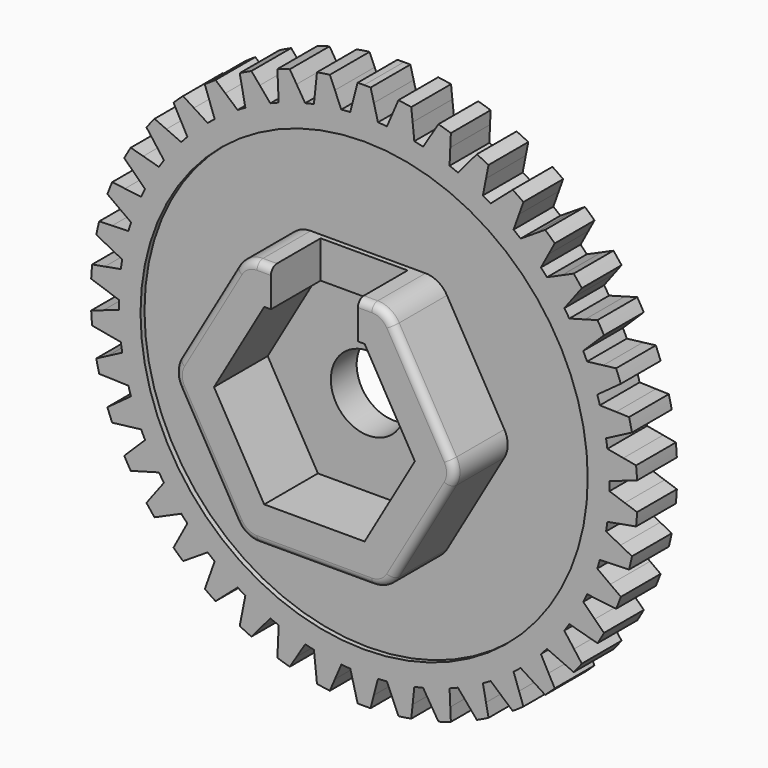
from build123d import *

# Parameters (mm, degrees)
F0_R      = 9.875
F1_DEPTH  = 2
F3_DEPTH  = 2
F4_R      = 9
F5_DEPTH  = 0.2
F6_R      = 9
F7_DEPTH  = 0.5
F9_DEPTH  = 2.7
F10_W     = 3.5
F10_H     = 1.5
F11_DEPTH = 2.5
F12_R     = 1.5
F13_DEPTH = 25
F14_R     = 1
F15_R     = 0.3


with BuildPart() as f1:
    # F0 (on Front) → F1 (new body)
    with BuildSketch(Plane.XZ):
        Circle(F0_R)
    extrude(amount=F1_DEPTH)

    # F2 (on Front) → F3 (join)
    with BuildSketch(Plane.XZ):
        with BuildLine():
            Line((10.4339782039, 1.1756269991), (9.7900083646, 1.2928113632))
            ThreePointArc((9.7900083646, 1.2928113632), (9.8473874972, 0.7379596742), (9.8733455952, 0.1807533041))
            Line((9.8733455952, 0.1807533041), (10.4926574003, 0.3926075399))
            Line((10.4926574003, 0.3926075399), (10.9856720066, 0.561258019))
            ThreePointArc((10.9856720066, 0.561258019), (10.969241769, 0.8220310295), (10.946622294, 1.0823402207))
            Line((10.946622294, 1.0823402207), (10.4339782039, 1.1756269991))
        make_face()
        with BuildLine():
            Line((10.142221176, 2.7175999736), (9.4879785246, 2.737496761))
            ThreePointArc((9.4879785246, 2.737496761), (9.6274131328, 2.1973942228), (9.7361286005, 1.6502802413))
            Line((9.7361286005, 1.6502802413), (10.3169479689, 1.9520718752))
            Line((10.3169479689, 1.9520718752), (10.7793199598, 2.192318682))
            ThreePointArc((10.7793199598, 2.192318682), (10.724207034, 2.4477302735), (10.6630431281, 2.7017607683))
            Line((10.6630431281, 2.7017607683), (10.142221176, 2.7175999736))
        make_face()
        with BuildLine():
            Line((9.6239036866, 4.1988662554), (8.9740029228, 4.1210310047))
            ThreePointArc((8.9740029228, 4.1210310047), (9.1923782679, 3.6077426156), (9.3814225813, 3.0829426449))
            Line((9.3814225813, 3.0829426449), (9.9107749682, 3.4679301505))
            Line((9.9107749682, 3.4679301505), (10.3321757175, 3.7744065683))
            ThreePointArc((10.3321757175, 3.7744065683), (10.2396112351, 4.018751268), (10.1412691988, 4.2608284449))
            Line((10.1412691988, 4.2608284449), (9.6239036866, 4.1988662554))
        make_face()
        with BuildLine():
            Line((8.8906040919, 5.5863368034), (8.2595629248, 5.4125082255))
            ThreePointArc((8.2595629248, 5.4125082255), (8.5520008624, 4.9375), (8.8171510839, 4.4467372042))
            Line((8.8171510839, 4.4467372042), (9.2832116318, 4.9063205969))
            Line((9.2832116318, 4.9063205969), (9.654227743, 5.2721804489))
            ThreePointArc((9.654227743, 5.2721804489), (9.5262794416, 5.5), (9.3929560736, 5.7247162549))
            Line((9.3929560736, 5.7247162549), (8.8906040919, 5.5863368034))
        make_face()
        with BuildLine():
            Line((7.958703093, 6.8490178184), (7.3606179395, 6.5830789565))
            ThreePointArc((7.3606179395, 6.5830789565), (7.7205858894, 6.1569617934), (8.0559190012, 5.7111990024))
            Line((8.0559190012, 5.7111990024), (8.4482766876, 6.2351119485))
            Line((8.4482766876, 6.2351119485), (8.7606202739, 6.6521825303))
            ThreePointArc((8.7606202739, 6.6521825303), (8.6001463071, 6.8583878204), (8.4348198311, 7.0607233635))
            Line((8.4348198311, 7.0607233635), (7.958703093, 6.8490178184))
        make_face()
        with BuildLine():
            Line((6.8490178184, 7.958703093), (6.2972489126, 7.6065945819))
            ThreePointArc((6.2972489126, 7.6065945819), (6.7167057855, 7.2388872343), (7.114731, 6.8480820524))
            Line((7.114731, 6.8480820524), (7.4246212025, 7.4246212025))
            Line((7.4246212025, 7.4246212025), (7.6713150243, 7.8835858464))
            ThreePointArc((7.6713150243, 7.8835858464), (7.4819001155, 8.0635705901), (7.2882636517, 8.2390055797))
            Line((7.2882636517, 8.2390055797), (6.8490178184, 7.958703093))
        make_face()
        with BuildLine():
            Line((5.5863368034, 8.8906040919), (5.0932097508, 8.4601914538))
            ThreePointArc((5.0932097508, 8.4601914538), (5.5627855734, 8.1591078964), (6.0146116651, 7.8319902654))
            Line((6.0146116651, 7.8319902654), (6.2351119485, 8.4482766876))
            Line((6.2351119485, 8.4482766876), (6.4106452736, 8.9388828819))
            ThreePointArc((6.4106452736, 8.9388828819), (6.1965206387, 9.0886265175), (5.9788997058, 9.2332420258))
            Line((5.9788997058, 9.2332420258), (5.5863368034, 8.8906040919))
        make_face()
        with BuildLine():
            Line((4.1988662554, 9.6239036866), (3.7753966995, 9.1248016286))
            ThreePointArc((3.7753966995, 9.1248016286), (4.2846019238, 8.8970675705), (4.7801358444, 8.6409447579))
            Line((4.7801358444, 8.6409447579), (4.9063205969, 9.2832116318))
            Line((4.9063205969, 9.2832116318), (5.0067723007, 9.7945000449))
            ThreePointArc((5.0067723007, 9.7945000449), (4.7727211303, 9.9106575469), (4.5359770204, 10.0212231025))
            Line((4.5359770204, 10.0212231025), (4.1988662554, 9.6239036866))
        make_face()
        with BuildLine():
            Line((2.7175999736, 10.142221176), (2.3732475245, 9.5855788134))
            ThreePointArc((2.3732475245, 9.5855788134), (2.9107073473, 9.4362814571), (3.4388796879, 9.2568748232))
            Line((3.4388796879, 9.2568748232), (3.4679301505, 9.9107749682))
            Line((3.4679301505, 9.9107749682), (3.4910563081, 10.4313242617))
            ThreePointArc((3.4910563081, 10.4313242617), (3.2423069185, 10.5113008636), (2.9917281037, 10.5853466147))
            Line((2.9917281037, 10.5853466147), (2.7175999736, 10.142221176))
        make_face()
        with BuildLine():
            Line((1.1756269991, 10.4339782039), (0.9180839216, 9.8322300071))
            ThreePointArc((0.9180839216, 9.8322300071), (1.4717923785, 9.764704409), (2.0208046417, 9.6660216015))
            Line((2.0208046417, 9.6660216015), (1.9520718752, 10.3169479689))
            Line((1.9520718752, 10.3169479689), (1.8973558864, 10.8351299319))
            ThreePointArc((1.8973558864, 10.8351299319), (1.6394649279, 10.8771390885), (1.3806489249, 10.9130109753))
            Line((1.3806489249, 10.9130109753), (1.1756269991, 10.4339782039))
        make_face()
        with BuildLine():
            ThreePointArc((-2.0208046417, 9.6660216015), (-1.4717923785, 9.764704409), (-0.9180839216, 9.8322300071))
            Line((-0.9180839216, 9.8322300071), (-1.1756269991, 10.4339782039))
            Line((-1.1756269991, 10.4339782039), (-1.3806489249, 10.9130109753))
            ThreePointArc((-1.3806489249, 10.9130109753), (-1.6394649279, 10.8771390885), (-1.8973558864, 10.8351299319))
            Line((-1.8973558864, 10.8351299319), (-1.9520718752, 10.3169479689))
            Line((-1.9520718752, 10.3169479689), (-2.0208046417, 9.6660216015))
        make_face()
        with BuildLine():
            ThreePointArc((-3.4388796879, 9.2568748232), (-2.9107073473, 9.4362814571), (-2.3732475245, 9.5855788134))
            Line((-2.3732475245, 9.5855788134), (-2.7175999736, 10.142221176))
            Line((-2.7175999736, 10.142221176), (-2.9917281037, 10.5853466147))
            ThreePointArc((-2.9917281037, 10.5853466147), (-3.2423069185, 10.5113008636), (-3.4910563081, 10.4313242617))
            Line((-3.4910563081, 10.4313242617), (-3.4679301505, 9.9107749682))
            Line((-3.4679301505, 9.9107749682), (-3.4388796879, 9.2568748232))
        make_face()
        with BuildLine():
            ThreePointArc((-4.7801358444, 8.6409447579), (-4.2846019238, 8.8970675705), (-3.7753966995, 9.1248016286))
            Line((-3.7753966995, 9.1248016286), (-4.1988662554, 9.6239036866))
            Line((-4.1988662554, 9.6239036866), (-4.5359770204, 10.0212231025))
            ThreePointArc((-4.5359770204, 10.0212231025), (-4.7727211303, 9.9106575469), (-5.0067723007, 9.7945000449))
            Line((-5.0067723007, 9.7945000449), (-4.9063205969, 9.2832116318))
            Line((-4.9063205969, 9.2832116318), (-4.7801358444, 8.6409447579))
        make_face()
        with BuildLine():
            ThreePointArc((-6.0146116651, 7.8319902654), (-5.5627855734, 8.1591078964), (-5.0932097508, 8.4601914538))
            Line((-5.0932097508, 8.4601914538), (-5.5863368034, 8.8906040919))
            Line((-5.5863368034, 8.8906040919), (-5.9788997058, 9.2332420258))
            ThreePointArc((-5.9788997058, 9.2332420258), (-6.1965206387, 9.0886265175), (-6.4106452736, 8.9388828819))
            Line((-6.4106452736, 8.9388828819), (-6.2351119485, 8.4482766876))
            Line((-6.2351119485, 8.4482766876), (-6.0146116651, 7.8319902654))
        make_face()
        with BuildLine():
            ThreePointArc((-7.114731, 6.8480820524), (-6.7167057855, 7.2388872343), (-6.2972489126, 7.6065945819))
            Line((-6.2972489126, 7.6065945819), (-6.8490178184, 7.958703093))
            Line((-6.8490178184, 7.958703093), (-7.2882636517, 8.2390055797))
            ThreePointArc((-7.2882636517, 8.2390055797), (-7.4819001155, 8.0635705901), (-7.6713150243, 7.8835858464))
            Line((-7.6713150243, 7.8835858464), (-7.4246212025, 7.4246212025))
            Line((-7.4246212025, 7.4246212025), (-7.114731, 6.8480820524))
        make_face()
        with BuildLine():
            ThreePointArc((-8.0559190012, 5.7111990024), (-7.7205858894, 6.1569617934), (-7.3606179395, 6.5830789565))
            Line((-7.3606179395, 6.5830789565), (-7.958703093, 6.8490178184))
            Line((-7.958703093, 6.8490178184), (-8.4348198311, 7.0607233635))
            ThreePointArc((-8.4348198311, 7.0607233635), (-8.6001463071, 6.8583878204), (-8.7606202739, 6.6521825303))
            Line((-8.7606202739, 6.6521825303), (-8.4482766876, 6.2351119485))
            Line((-8.4482766876, 6.2351119485), (-8.0559190012, 5.7111990024))
        make_face()
        with BuildLine():
            ThreePointArc((-8.8171510839, 4.4467372042), (-8.5520008624, 4.9375), (-8.2595629248, 5.4125082255))
            Line((-8.2595629248, 5.4125082255), (-8.8906040919, 5.5863368034))
            Line((-8.8906040919, 5.5863368034), (-9.3929560736, 5.7247162549))
            ThreePointArc((-9.3929560736, 5.7247162549), (-9.5262794416, 5.5), (-9.654227743, 5.2721804489))
            Line((-9.654227743, 5.2721804489), (-9.2832116318, 4.9063205969))
            Line((-9.2832116318, 4.9063205969), (-8.8171510839, 4.4467372042))
        make_face()
        with BuildLine():
            ThreePointArc((-9.3814225813, 3.0829426449), (-9.1923782679, 3.6077426156), (-8.9740029228, 4.1210310047))
            Line((-8.9740029228, 4.1210310047), (-9.6239036866, 4.1988662554))
            Line((-9.6239036866, 4.1988662554), (-10.1412691988, 4.2608284449))
            ThreePointArc((-10.1412691988, 4.2608284449), (-10.2396112351, 4.018751268), (-10.3321757175, 3.7744065683))
            Line((-10.3321757175, 3.7744065683), (-9.9107749682, 3.4679301505))
            Line((-9.9107749682, 3.4679301505), (-9.3814225813, 3.0829426449))
        make_face()
        with BuildLine():
            ThreePointArc((-9.7361286005, 1.6502802413), (-9.6274131328, 2.1973942228), (-9.4879785246, 2.737496761))
            Line((-9.4879785246, 2.737496761), (-10.142221176, 2.7175999736))
            Line((-10.142221176, 2.7175999736), (-10.6630431281, 2.7017607683))
            ThreePointArc((-10.6630431281, 2.7017607683), (-10.724207034, 2.4477302735), (-10.7793199598, 2.192318682))
            Line((-10.7793199598, 2.192318682), (-10.3169479689, 1.9520718752))
            Line((-10.3169479689, 1.9520718752), (-9.7361286005, 1.6502802413))
        make_face()
        with BuildLine():
            ThreePointArc((-9.8733455952, 0.1807533041), (-9.8473874972, 0.7379596742), (-9.7900083646, 1.2928113632))
            Line((-9.7900083646, 1.2928113632), (-10.4339782039, 1.1756269991))
            Line((-10.4339782039, 1.1756269991), (-10.946622294, 1.0823402207))
            ThreePointArc((-10.946622294, 1.0823402207), (-10.969241769, 0.8220310295), (-10.9856720066, 0.561258019))
            Line((-10.9856720066, 0.561258019), (-10.4926574003, 0.3926075399))
            Line((-10.4926574003, 0.3926075399), (-9.8733455952, 0.1807533041))
        make_face()
        with BuildLine():
            ThreePointArc((-9.7900083646, -1.2928113632), (-9.8473874972, -0.7379596742), (-9.8733455952, -0.1807533041))
            Line((-9.8733455952, -0.1807533041), (-10.4926574003, -0.3926075399))
            Line((-10.4926574003, -0.3926075399), (-10.9856720066, -0.561258019))
            ThreePointArc((-10.9856720066, -0.561258019), (-10.969241769, -0.8220310295), (-10.946622294, -1.0823402207))
            Line((-10.946622294, -1.0823402207), (-10.4339782039, -1.1756269991))
            Line((-10.4339782039, -1.1756269991), (-9.7900083646, -1.2928113632))
        make_face()
        with BuildLine():
            ThreePointArc((-9.4879785246, -2.737496761), (-9.6274131328, -2.1973942228), (-9.7361286005, -1.6502802413))
            Line((-9.7361286005, -1.6502802413), (-10.3169479689, -1.9520718752))
            Line((-10.3169479689, -1.9520718752), (-10.7793199598, -2.192318682))
            ThreePointArc((-10.7793199598, -2.192318682), (-10.724207034, -2.4477302735), (-10.6630431281, -2.7017607683))
            Line((-10.6630431281, -2.7017607683), (-10.142221176, -2.7175999736))
            Line((-10.142221176, -2.7175999736), (-9.4879785246, -2.737496761))
        make_face()
        with BuildLine():
            ThreePointArc((-8.9740029228, -4.1210310047), (-9.1923782679, -3.6077426156), (-9.3814225813, -3.0829426449))
            Line((-9.3814225813, -3.0829426449), (-9.9107749682, -3.4679301505))
            Line((-9.9107749682, -3.4679301505), (-10.3321757175, -3.7744065683))
            ThreePointArc((-10.3321757175, -3.7744065683), (-10.2396112351, -4.018751268), (-10.1412691988, -4.2608284449))
            Line((-10.1412691988, -4.2608284449), (-9.6239036866, -4.1988662554))
            Line((-9.6239036866, -4.1988662554), (-8.9740029228, -4.1210310047))
        make_face()
        with BuildLine():
            ThreePointArc((-8.2595629248, -5.4125082255), (-8.5520008624, -4.9375), (-8.8171510839, -4.4467372042))
            Line((-8.8171510839, -4.4467372042), (-9.2832116318, -4.9063205969))
            Line((-9.2832116318, -4.9063205969), (-9.654227743, -5.2721804489))
            ThreePointArc((-9.654227743, -5.2721804489), (-9.5262794416, -5.5), (-9.3929560736, -5.7247162549))
            Line((-9.3929560736, -5.7247162549), (-8.8906040919, -5.5863368034))
            Line((-8.8906040919, -5.5863368034), (-8.2595629248, -5.4125082255))
        make_face()
        with BuildLine():
            ThreePointArc((-7.3606179395, -6.5830789565), (-7.7205858894, -6.1569617934), (-8.0559190012, -5.7111990024))
            Line((-8.0559190012, -5.7111990024), (-8.4482766876, -6.2351119485))
            Line((-8.4482766876, -6.2351119485), (-8.7606202739, -6.6521825303))
            ThreePointArc((-8.7606202739, -6.6521825303), (-8.6001463071, -6.8583878204), (-8.4348198311, -7.0607233635))
            Line((-8.4348198311, -7.0607233635), (-7.958703093, -6.8490178184))
            Line((-7.958703093, -6.8490178184), (-7.3606179395, -6.5830789565))
        make_face()
        with BuildLine():
            ThreePointArc((-6.2972489126, -7.6065945819), (-6.7167057855, -7.2388872343), (-7.114731, -6.8480820524))
            Line((-7.114731, -6.8480820524), (-7.4246212025, -7.4246212025))
            Line((-7.4246212025, -7.4246212025), (-7.6713150243, -7.8835858464))
            ThreePointArc((-7.6713150243, -7.8835858464), (-7.4819001155, -8.0635705901), (-7.2882636517, -8.2390055797))
            Line((-7.2882636517, -8.2390055797), (-6.8490178184, -7.958703093))
            Line((-6.8490178184, -7.958703093), (-6.2972489126, -7.6065945819))
        make_face()
        with BuildLine():
            ThreePointArc((-5.0932097508, -8.4601914538), (-5.5627855734, -8.1591078964), (-6.0146116651, -7.8319902654))
            Line((-6.0146116651, -7.8319902654), (-6.2351119485, -8.4482766876))
            Line((-6.2351119485, -8.4482766876), (-6.4106452736, -8.9388828819))
            ThreePointArc((-6.4106452736, -8.9388828819), (-6.1965206387, -9.0886265175), (-5.9788997058, -9.2332420258))
            Line((-5.9788997058, -9.2332420258), (-5.5863368034, -8.8906040919))
            Line((-5.5863368034, -8.8906040919), (-5.0932097508, -8.4601914538))
        make_face()
        with BuildLine():
            ThreePointArc((-3.7753966995, -9.1248016286), (-4.2846019238, -8.8970675705), (-4.7801358444, -8.6409447579))
            Line((-4.7801358444, -8.6409447579), (-4.9063205969, -9.2832116318))
            Line((-4.9063205969, -9.2832116318), (-5.0067723007, -9.7945000449))
            ThreePointArc((-5.0067723007, -9.7945000449), (-4.7727211303, -9.9106575469), (-4.5359770204, -10.0212231025))
            Line((-4.5359770204, -10.0212231025), (-4.1988662554, -9.6239036866))
            Line((-4.1988662554, -9.6239036866), (-3.7753966995, -9.1248016286))
        make_face()
        with BuildLine():
            ThreePointArc((-2.3732475245, -9.5855788134), (-2.9107073473, -9.4362814571), (-3.4388796879, -9.2568748232))
            Line((-3.4388796879, -9.2568748232), (-3.4679301505, -9.9107749682))
            Line((-3.4679301505, -9.9107749682), (-3.4910563081, -10.4313242617))
            ThreePointArc((-3.4910563081, -10.4313242617), (-3.2423069185, -10.5113008636), (-2.9917281037, -10.5853466147))
            Line((-2.9917281037, -10.5853466147), (-2.7175999736, -10.142221176))
            Line((-2.7175999736, -10.142221176), (-2.3732475245, -9.5855788134))
        make_face()
        with BuildLine():
            ThreePointArc((-0.9180839216, -9.8322300071), (-1.4717923785, -9.764704409), (-2.0208046417, -9.6660216015))
            Line((-2.0208046417, -9.6660216015), (-1.9520718752, -10.3169479689))
            Line((-1.9520718752, -10.3169479689), (-1.8973558864, -10.8351299319))
            ThreePointArc((-1.8973558864, -10.8351299319), (-1.6394649279, -10.8771390885), (-1.3806489249, -10.9130109753))
            Line((-1.3806489249, -10.9130109753), (-1.1756269991, -10.4339782039))
            Line((-1.1756269991, -10.4339782039), (-0.9180839216, -9.8322300071))
        make_face()
        with BuildLine():
            ThreePointArc((0.5575881591, -9.8592454298), (0, -9.875), (-0.5575881591, -9.8592454298))
            Line((-0.5575881591, -9.8592454298), (-0.3926075399, -10.4926574003))
            Line((-0.3926075399, -10.4926574003), (-0.2612716694, -10.9968967038))
            ThreePointArc((-0.2612716694, -10.9968967038), (0, -11), (0.2612716694, -10.9968967038))
            Line((0.2612716694, -10.9968967038), (0.3926075399, -10.4926574003))
            Line((0.3926075399, -10.4926574003), (0.5575881591, -9.8592454298))
        make_face()
        with BuildLine():
            Line((1.9520718752, -10.3169479689), (2.0208046417, -9.6660216015))
            ThreePointArc((2.0208046417, -9.6660216015), (1.4717923785, -9.764704409), (0.9180839216, -9.8322300071))
            Line((0.9180839216, -9.8322300071), (1.1756269991, -10.4339782039))
            Line((1.1756269991, -10.4339782039), (1.3806489249, -10.9130109753))
            ThreePointArc((1.3806489249, -10.9130109753), (1.6394649279, -10.8771390885), (1.8973558864, -10.8351299319))
            Line((1.8973558864, -10.8351299319), (1.9520718752, -10.3169479689))
        make_face()
        with BuildLine():
            Line((3.4679301505, -9.9107749682), (3.4388796879, -9.2568748232))
            ThreePointArc((3.4388796879, -9.2568748232), (2.9107073473, -9.4362814571), (2.3732475245, -9.5855788134))
            Line((2.3732475245, -9.5855788134), (2.7175999736, -10.142221176))
            Line((2.7175999736, -10.142221176), (2.9917281037, -10.5853466147))
            ThreePointArc((2.9917281037, -10.5853466147), (3.2423069185, -10.5113008636), (3.4910563081, -10.4313242617))
            Line((3.4910563081, -10.4313242617), (3.4679301505, -9.9107749682))
        make_face()
        with BuildLine():
            Line((4.9063205969, -9.2832116318), (4.7801358444, -8.6409447579))
            ThreePointArc((4.7801358444, -8.6409447579), (4.2846019238, -8.8970675705), (3.7753966995, -9.1248016286))
            Line((3.7753966995, -9.1248016286), (4.1988662554, -9.6239036866))
            Line((4.1988662554, -9.6239036866), (4.5359770204, -10.0212231025))
            ThreePointArc((4.5359770204, -10.0212231025), (4.7727211303, -9.9106575469), (5.0067723007, -9.7945000449))
            Line((5.0067723007, -9.7945000449), (4.9063205969, -9.2832116318))
        make_face()
        with BuildLine():
            Line((6.2351119485, -8.4482766876), (6.0146116651, -7.8319902654))
            ThreePointArc((6.0146116651, -7.8319902654), (5.5627855734, -8.1591078964), (5.0932097508, -8.4601914538))
            Line((5.0932097508, -8.4601914538), (5.5863368034, -8.8906040919))
            Line((5.5863368034, -8.8906040919), (5.9788997058, -9.2332420258))
            ThreePointArc((5.9788997058, -9.2332420258), (6.1965206387, -9.0886265175), (6.4106452736, -8.9388828819))
            Line((6.4106452736, -8.9388828819), (6.2351119485, -8.4482766876))
        make_face()
        with BuildLine():
            Line((7.4246212025, -7.4246212025), (7.114731, -6.8480820524))
            ThreePointArc((7.114731, -6.8480820524), (6.7167057855, -7.2388872343), (6.2972489126, -7.6065945819))
            Line((6.2972489126, -7.6065945819), (6.8490178184, -7.958703093))
            Line((6.8490178184, -7.958703093), (7.2882636517, -8.2390055797))
            ThreePointArc((7.2882636517, -8.2390055797), (7.4819001155, -8.0635705901), (7.6713150243, -7.8835858464))
            Line((7.6713150243, -7.8835858464), (7.4246212025, -7.4246212025))
        make_face()
        with BuildLine():
            Line((8.4482766876, -6.2351119485), (8.0559190012, -5.7111990024))
            ThreePointArc((8.0559190012, -5.7111990024), (7.7205858894, -6.1569617934), (7.3606179395, -6.5830789565))
            Line((7.3606179395, -6.5830789565), (7.958703093, -6.8490178184))
            Line((7.958703093, -6.8490178184), (8.4348198311, -7.0607233635))
            ThreePointArc((8.4348198311, -7.0607233635), (8.6001463071, -6.8583878204), (8.7606202739, -6.6521825303))
            Line((8.7606202739, -6.6521825303), (8.4482766876, -6.2351119485))
        make_face()
        with BuildLine():
            Line((9.2832116318, -4.9063205969), (8.8171510839, -4.4467372042))
            ThreePointArc((8.8171510839, -4.4467372042), (8.5520008624, -4.9375), (8.2595629248, -5.4125082255))
            Line((8.2595629248, -5.4125082255), (8.8906040919, -5.5863368034))
            Line((8.8906040919, -5.5863368034), (9.3929560736, -5.7247162549))
            ThreePointArc((9.3929560736, -5.7247162549), (9.5262794416, -5.5), (9.654227743, -5.2721804489))
            Line((9.654227743, -5.2721804489), (9.2832116318, -4.9063205969))
        make_face()
        with BuildLine():
            Line((9.9107749682, -3.4679301505), (9.3814225813, -3.0829426449))
            ThreePointArc((9.3814225813, -3.0829426449), (9.1923782679, -3.6077426156), (8.9740029228, -4.1210310047))
            Line((8.9740029228, -4.1210310047), (9.6239036866, -4.1988662554))
            Line((9.6239036866, -4.1988662554), (10.1412691988, -4.2608284449))
            ThreePointArc((10.1412691988, -4.2608284449), (10.2396112351, -4.018751268), (10.3321757175, -3.7744065683))
            Line((10.3321757175, -3.7744065683), (9.9107749682, -3.4679301505))
        make_face()
        with BuildLine():
            Line((10.3169479689, -1.9520718752), (9.7361286005, -1.6502802413))
            ThreePointArc((9.7361286005, -1.6502802413), (9.6274131328, -2.1973942228), (9.4879785246, -2.737496761))
            Line((9.4879785246, -2.737496761), (10.142221176, -2.7175999736))
            Line((10.142221176, -2.7175999736), (10.6630431281, -2.7017607683))
            ThreePointArc((10.6630431281, -2.7017607683), (10.724207034, -2.4477302735), (10.7793199598, -2.192318682))
            Line((10.7793199598, -2.192318682), (10.3169479689, -1.9520718752))
        make_face()
        with BuildLine():
            Line((10.4926574003, -0.3926075399), (9.8733455952, -0.1807533041))
            ThreePointArc((9.8733455952, -0.1807533041), (9.8473874972, -0.7379596742), (9.7900083646, -1.2928113632))
            Line((9.7900083646, -1.2928113632), (10.4339782039, -1.1756269991))
            Line((10.4339782039, -1.1756269991), (10.946622294, -1.0823402207))
            ThreePointArc((10.946622294, -1.0823402207), (10.969241769, -0.8220310295), (10.9856720066, -0.561258019))
            Line((10.9856720066, -0.561258019), (10.4926574003, -0.3926075399))
        make_face()
        with BuildLine():
            Line((-0.3692380435, 9.8680944598), (-0.3926075399, 10.4926574003))
            Line((-0.3926075399, 10.4926574003), (-0.5575881591, 9.8592454298))
            ThreePointArc((-0.5575881591, 9.8592454298), (-0.4634342227, 9.8641195107), (-0.3692380435, 9.8680944598))
        make_face()
        with BuildLine():
            ThreePointArc((0.2612716694, 10.9968967038), (0.1306450493, 10.9992241486), (0, 11))
            Line((0, 11), (0, 10.5))
            ThreePointArc((0, 10.5), (0.1963380975, 10.4981641896), (0.3926075399, 10.4926574003))
            Line((0.3926075399, 10.4926574003), (0.2612716694, 10.9968967038))
        make_face()
        with BuildLine():
            ThreePointArc((0.3926075399, 10.4926574003), (0.1963380975, 10.4981641896), (0, 10.5))
            Line((0, 10.5), (0, 9.875))
            ThreePointArc((0, 9.875), (0.2789053431, 9.8710605717), (0.5575881591, 9.8592454298))
            Line((0.5575881591, 9.8592454298), (0.3926075399, 10.4926574003))
        make_face()
        with BuildLine():
            Line((0, 10.5), (0, 11))
            ThreePointArc((0, 11), (-0.1306450493, 10.9992241486), (-0.2612716694, 10.9968967038))
            Line((-0.2612716694, 10.9968967038), (-0.3926075399, 10.4926574003))
            ThreePointArc((-0.3926075399, 10.4926574003), (-0.1963380975, 10.4981641896), (0, 10.5))
        make_face()
        with BuildLine():
            Line((0, 9.875), (0, 10.5))
            ThreePointArc((0, 10.5), (-0.1963380975, 10.4981641896), (-0.3926075399, 10.4926574003))
            Line((-0.3926075399, 10.4926574003), (-0.3692380435, 9.8680944598))
            ThreePointArc((-0.3692380435, 9.8680944598), (-0.184651306, 9.873273464), (0, 9.875))
        make_face()
    extrude(amount=F3_DEPTH)

    # F4 (on face) → F5 (cut)
    with BuildSketch(Plane.XZ.offset(2)):
        Circle(F4_R)
    extrude(amount=-F5_DEPTH, mode=Mode.SUBTRACT)

    # F6 (on face) → F7 (cut)
    with BuildSketch(Plane(origin=(0, 0, 0), x_dir=(-1, 0, 0), z_dir=(0, 1, 0))):
        Circle(F6_R)
    extrude(amount=-F7_DEPTH, mode=Mode.SUBTRACT)

    # F8 (on face) → F9 (join)
    with BuildSketch(Plane.XZ.offset(1.8)):
        Polygon((2.8867513459, 5), (-2.8867513459, 5), (-5.7735026919, 0), (-2.8867513459, -5), (2.8867513459, -5), (5.7735026919, 0), align=None)
        Polygon((-4.0414518843, 0), (-2.0207259422, 3.5), (2.0207259422, 3.5), (4.0414518843, 0), (2.0207259422, -3.5), (-2.0207259422, -3.5), align=None, mode=Mode.SUBTRACT)
    extrude(amount=F9_DEPTH)

    # F10 (on face) → F11 (cut)
    with BuildSketch(Plane.XZ.offset(4.5)):
        with Locations((0, 4.25)):
            Rectangle(F10_W, F10_H)
    extrude(amount=-F11_DEPTH, mode=Mode.SUBTRACT)

    # F12 (on face) → F13 (cut)
    with BuildSketch(Plane.XZ.offset(1.8)):
        Circle(F12_R)
    extrude(amount=-F13_DEPTH, mode=Mode.SUBTRACT)

    # F14
    f14_edges = [f1.edges().sort_by_distance(p)[0] for p in [
        (-2.886751, -3.15, -5),
        (-5.773503, -3.15, 0),
        (-2.886751, -3.15, 5),
        (2.886751, -3.15, 5),
        (5.773503, -3.15, 0),
        (2.886751, -3.15, -5),
    ]]
    fillet(f14_edges, radius=F14_R)

    # F15
    f15_edges = [f1.edges().sort_by_distance(p)[0] for p in [
        (-4.330127, -4.5, -2.5),
    ]]
    fillet(f15_edges, radius=F15_R)


solid = f1.part
